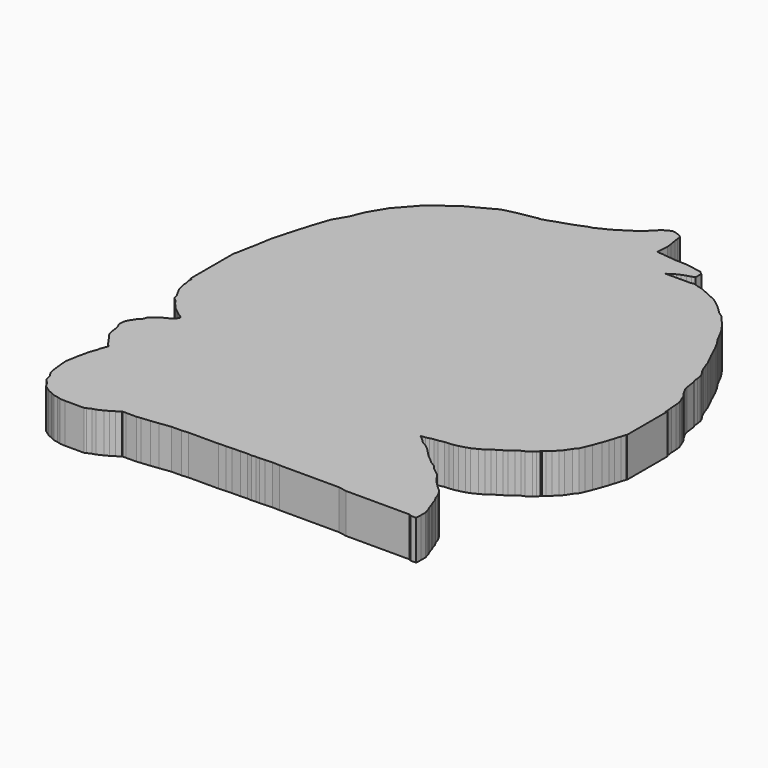
from build123d import *

# Parameters (mm, degrees)
EXTRUDE027_DEPTH = 10
EXTRUDE026_DEPTH = 10
EXTRUDE025_DEPTH = 10
EXTRUDE024_DEPTH = 10
EXTRUDE023_DEPTH = 10
BOX010_W         = 10
BOX010_H         = 10
BOX010_DEPTH     = 10
BOX009_W         = 10
BOX009_H         = 10
BOX009_DEPTH     = 10
BOX008_W         = 10
BOX008_H         = 10
BOX008_DEPTH     = 10
BOX007_W         = 43
BOX007_H         = 10
BOX007_DEPTH     = 10
BOX006_W         = 10
BOX006_H         = 17.1
BOX006_DEPTH     = 10
BOX005_W         = 12
BOX005_H         = 39
BOX005_DEPTH     = 10
BOX004_W         = 10
BOX004_H         = 16
BOX004_DEPTH     = 10
BOX003_W         = 15
BOX003_H         = 10
BOX003_DEPTH     = 10
BOX002_W         = 10
BOX002_H         = 19
BOX002_DEPTH     = 10
BOX001_W         = 10
BOX001_H         = 53
BOX001_DEPTH     = 10
BOX_W            = 46
BOX_H            = 53
BOX_DEPTH        = 4


with BuildPart() as extrude027:
    # Sketch004 (on Sketch) → Extrude027 (new body)
    with BuildSketch(Plane.XY):
        Polygon((82.129718, -49.20298), (82.129718, -49.694065), (82.221815, -49.939606), (82.221815, -50.307919), (82.344608, -50.737617), (82.467401, -51.228699), (82.651587, -51.566319), (82.958574, -52.11879), (83.081367, -52.579182), (83.419043, -52.855415), (83.726028, -53.285114), (84.309291, -53.929661), (84.769766, -54.297974), (85.138145, -54.574207), (85.475822, -54.789055), (85.567917, -54.94252), (85.414428, -55.188061), (85.168841, -55.372215), (84.923255, -55.556374), (84.677669, -55.679142), (84.217194, -55.924686), (83.848822, -56.20092), (83.511139, -56.53854), (83.357649, -56.937546), (83.019966, -57.275166), (82.743684, -57.704865), (82.559492, -58.011791), (82.467401, -58.380104), (82.467401, -58.840492), (82.620891, -59.116726), (82.712987, -59.423656), (82.743684, -59.607811), (82.774381, -59.976124), (82.835781, -60.283051), (82.897175, -60.528591), (82.98927, -60.712749), (83.326946, -61.111755), (83.480442, -61.387989), (83.603235, -61.541454), (83.787422, -61.817688), (83.971615, -62.063229), (84.186497, -62.247383), (84.063705, -62.646389), (83.910214, -62.984009), (83.879518, -63.321629), (83.756725, -63.53648), (83.633932, -63.935482), (83.541835, -64.273102), (83.449746, -64.733498), (83.357649, -65.071114), (83.29625, -65.500816), (83.234856, -65.838432), (83.142759, -66.29882), (83.173457, -66.912674), (83.266958, -67.750008), (83.328357, -68.210403), (83.451144, -68.701485), (83.727433, -69.100487), (83.788827, -69.407417), (83.91162, -69.775726), (84.310702, -70.205429), (84.586978, -70.665817), (85.262343, -71.156898), (85.538625, -71.248978), (85.722812, -71.341057), (86.060494, -71.494522), (86.428873, -71.555908), (86.827949, -71.67868), (89.038216, -71.77076), (89.437293, -71.617294), (89.836369, -71.433136), (90.17405, -71.341057), (90.75732, -71.064827), (91.156395, -70.849976), (91.555471, -70.604431), (92.01594, -70.297508), (92.384319, -70.297508), (92.384319, -73.949936), (75.745906, -73.949936), (75.745906, -47.941055), align=None)
    extrude(amount=EXTRUDE027_DEPTH)


with BuildPart() as extrude026:
    # Sketch003 (on Sketch) → Extrude026 (new body)
    with BuildSketch(Plane.XY):
        Polygon((125.561165, -48.533157), (125.4077, -49.059258), (125.223549, -49.642418), (125.070084, -50.164192), (124.855232, -50.778049), (124.548309, -51.60675), (124.302765, -52.220604), (124.087914, -52.680996), (123.750298, -53.080002), (123.381981, -53.663162), (123.105751, -54.000782), (122.676056, -54.369095), (122.369125, -54.706715), (122.092888, -54.890873), (121.785965, -55.228493), (121.540421, -55.412647), (121.080032, -55.750267), (120.773102, -55.873039), (120.3741, -56.179966), (119.944397, -56.517586), (119.606781, -56.701744), (119.177086, -56.977978), (118.778076, -57.162132), (118.409767, -57.499752), (117.949371, -57.745296), (117.396904, -58.02153), (116.967209, -58.174992), (116.384048, -58.328457), (115.954346, -58.420536), (115.555344, -58.451229), (115.094955, -58.481918), (114.54248, -58.604691), (114.174171, -58.635384), (113.775169, -58.727463), (113.437546, -58.819542), (112.977158, -58.850231), (113.468239, -59.249237), (113.867249, -59.648243), (114.235558, -59.832401), (114.603867, -60.108635), (114.972183, -60.446255), (115.248413, -60.753181), (115.678116, -61.18288), (116.169197, -61.581882), (116.476128, -61.85812), (117.028595, -62.195736), (117.304825, -62.53336), (117.673141, -62.840286), (118.102837, -63.177906), (118.348381, -63.484833), (118.533005, -63.768009), (118.901314, -64.228401), (119.238937, -64.566025), (119.607246, -64.934334), (119.94487, -65.210571), (120.2211, -65.609573), (120.405258, -65.977882), (120.497337, -66.346199), (120.742874, -66.714508), (120.865646, -67.144211), (121.019112, -67.481827), (121.141884, -67.91153), (121.326042, -68.310532), (121.4795, -68.832306), (121.4795, -69.419716), (121.4487, -70.002876), (121.080391, -70.125648), (120.712074, -69.880104), (114.266609, -69.880104), (113.468597, -69.726646), (107.452827, -69.726646), (106.716202, -69.695953), (105.979576, -69.726646), (105.457802, -69.757339), (105.058792, -69.757339), (104.629089, -69.788033), (104.230087, -69.757339), (103.524155, -69.788033), (102.69545, -69.788033), (102.081596, -69.818726), (101.344971, -69.849419), (100.301422, -69.849419), (99.22718, -69.849419), (98.306396, -69.849419), (97.66185, -69.910805), (96.648987, -69.910805), (95.544052, -70.064262), (94.74604, -70.156342), (93.825264, -70.248421), (93.088631, -70.3405), (93.027245, -71.90583), (129.152573, -71.90583), (129.152573, -48.533157), align=None)
    extrude(amount=EXTRUDE026_DEPTH)


with BuildPart() as extrude025:
    # Sketch002 (on Sketch) → Extrude025 (new body)
    with BuildSketch(Plane.XY):
        Polygon((113.035233, -24.109739), (112.666924, -24.23251), (112.26792, -24.355282), (111.838225, -24.508745), (111.531296, -24.662209), (111.285751, -24.754286), (111.009514, -24.999828), (110.733284, -25.122599), (113.188698, -25.122599), (113.649093, -25.061213), (113.98671, -25.183983), (114.355025, -25.276062), (114.600563, -25.337446), (115.091651, -25.552298), (115.82827, -25.889915), (116.104507, -26.012688), (116.44213, -26.166151), (116.779747, -26.380999), (117.240135, -26.749313), (117.70053, -27.148317), (118.222305, -27.670094), (118.74408, -28.038404), (119.265854, -28.65226), (119.511398, -28.928493), (119.818328, -29.327499), (120.125252, -29.726503), (120.432181, -30.24828), (120.616333, -30.585899), (120.861877, -31.076982), (121.046035, -31.414604), (121.352959, -31.844301), (121.813353, -32.703697), (122.058891, -33.256165), (122.304435, -33.777943), (122.918289, -35.00565), (123.010368, -35.312576), (123.255905, -35.957123), (123.40937, -36.294743), (123.746993, -36.785828), (123.869765, -37.123447), (123.931145, -37.522453), (123.961838, -37.952148), (124.08461, -38.228382), (124.207382, -39.179859), (124.330154, -39.609554), (124.637077, -40.162025), (124.913315, -40.530338), (125.158858, -41.113499), (125.343849, -41.579353), (125.405235, -42.070435), (125.435928, -42.714981), (125.497314, -43.175373), (125.528008, -43.635761), (130.715073, -29.97751), (122.670227, -19.12763), align=None)
    extrude(amount=EXTRUDE025_DEPTH)


with BuildPart() as extrude024:
    # Sketch001 → Extrude024 (new body)
    with BuildSketch(Plane.XY):
        Polygon((112.988113, -23.404947), (112.686569, -23.128527), (112.460403, -23.103397), (112.058342, -23.028011), (111.078308, -22.852108), (110.726501, -22.852108), (110.349564, -22.826979), (109.922371, -22.826979), (109.595695, -22.77672), (109.243889, -22.751591), (108.967468, -22.726463), (108.741302, -22.701334), (108.490013, -22.651075), (108.213593, -22.651075), (107.937172, -22.600817), (108.012566, -21.419752), (107.937172, -20.866913), (107.836662, -20.263815), (107.7864, -19.86175), (107.711014, -19.459686), (107.334076, -19.258654), (106.906883, -19.10788), (106.705849, -19.08275), (106.479691, -19.158136), (106.20327, -19.283781), (105.801208, -19.560202), (105.399139, -19.962267), (104.946815, -20.414591), (104.494492, -20.766397), (103.966782, -21.143332), (103.112396, -21.671043), (102.685204, -21.947462), (102.258011, -22.148495), (101.830818, -22.349527), (101.403618, -22.575689), (100.901039, -22.701334), (100.373329, -22.927496), (99.795364, -23.153656), (99.217392, -23.354689), (98.488655, -23.580851), (97.885551, -23.807013), (97.131683, -24.033175), (90.271454, -16.092394), (117.712372, -13.855906), align=None)
    extrude(amount=EXTRUDE024_DEPTH)


with BuildPart() as extrude023:
    # Sketch → Extrude023 (new body)
    with BuildSketch(Plane.XY):
        Polygon((85.137451, -33.114918), (84.384719, -34.369488), (83.799248, -36.125881), (83.13015, -38.384106), (82.71196, -39.973225), (82.461044, -41.478706), (82.042861, -43.65329), (78.948257, -43.820564), (78.948257, -32.194904), (78.948257, -22.07472), (96.930397, -22.07472), (97.014037, -23.99839), (95.174003, -24.332943), (93.752158, -24.667492), (92.99942, -25.085684), (91.075745, -26.089336), (88.650246, -27.845734), (86.726577, -30.020319), (85.722923, -31.693073), align=None)
    extrude(amount=EXTRUDE023_DEPTH)


with BuildPart() as cube007:
    # Box010 → Box010 (new body)
    with BuildSketch(Plane(origin=(82, -81.7, 0), x_dir=(1, 0, 0), z_dir=(0, 0, 1))):
        with Locations((5, 5)):
            Rectangle(BOX010_W, BOX010_H)
    extrude(amount=BOX010_DEPTH)


with BuildPart() as cube006:
    # Box009 → Box009 (new body)
    with BuildSketch(Plane(origin=(92, -80.3, 0), x_dir=(1, 0, 0), z_dir=(0, 0, 1))):
        with Locations((5, 5)):
            Rectangle(BOX009_W, BOX009_H)
    extrude(amount=BOX009_DEPTH)


with BuildPart() as cube005:
    # Box008 → Box008 (new body)
    with BuildSketch(Plane(origin=(113, -25, 0), x_dir=(1, 0, 0), z_dir=(0, 0, 1))):
        with Locations((5, 5)):
            Rectangle(BOX008_W, BOX008_H)
    extrude(amount=BOX008_DEPTH)


with BuildPart() as cube004:
    # Box007 → Box007 (new body)
    with BuildSketch(Plane(origin=(97, -80, 0), x_dir=(1, 0, 0), z_dir=(0, 0, 1))):
        with Locations((21.5, 5)):
            Rectangle(BOX007_W, BOX007_H)
    extrude(amount=BOX007_DEPTH)


with BuildPart() as cube003:
    # Box006 → Box006 (new body)
    with BuildSketch(Plane(origin=(122, -72, 0), x_dir=(1, 0, 0), z_dir=(0, 0, 1))):
        with Locations((5, 8.55)):
            Rectangle(BOX006_W, BOX006_H)
    extrude(amount=BOX006_DEPTH)


with BuildPart() as cube002:
    # Box005 → Box005 (new body)
    with BuildSketch(Plane(origin=(125.6, -72, 0), x_dir=(1, 0, 0), z_dir=(0, 0, 1))):
        with Locations((6, 19.5)):
            Rectangle(BOX005_W, BOX005_H)
    extrude(amount=BOX005_DEPTH)


with BuildPart() as cube001:
    # Box004 → Box004 (new body)
    with BuildSketch(Plane(origin=(122, -33, 0), x_dir=(1, 0, 0), z_dir=(0, 0, 1))):
        with Locations((5, 8)):
            Rectangle(BOX004_W, BOX004_H)
    extrude(amount=BOX004_DEPTH)


with BuildPart() as cube:
    # Box003 → Box003 (new body)
    with BuildSketch(Plane(origin=(82, -24, 0), x_dir=(1, 0, 0), z_dir=(0, 0, 1))):
        with Locations((7.5, 5)):
            Rectangle(BOX003_W, BOX003_H)
    extrude(amount=BOX003_DEPTH)


with BuildPart() as p2:
    # Box002 → Box002 (new body)
    with BuildSketch(Plane(origin=(75, -33, 0), x_dir=(1, 0, 0), z_dir=(0, 0, 1))):
        with Locations((5, 9.5)):
            Rectangle(BOX002_W, BOX002_H)
    extrude(amount=BOX002_DEPTH)


with BuildPart() as p1:
    # Box001 → Box001 (new body)
    with BuildSketch(Plane(origin=(72, -72, 0), x_dir=(1, 0, 0), z_dir=(0, 0, 1))):
        with Locations((5, 26.5)):
            Rectangle(BOX001_W, BOX001_H)
    extrude(amount=BOX001_DEPTH)


with BuildPart() as obj1:
    # Box → Box (new body)
    with BuildSketch(Plane(origin=(81, -72, 3), x_dir=(1, 0, 0), z_dir=(0, 0, 1))):
        with Locations((23, 26.5)):
            Rectangle(BOX_W, BOX_H)
    extrude(amount=BOX_DEPTH)

    # Cut: cut p1
    add(p1.part, mode=Mode.SUBTRACT)

    # Cut001: cut p2
    add(p2.part, mode=Mode.SUBTRACT)

    # Cut002: cut Cube
    add(cube.part, mode=Mode.SUBTRACT)

    # Cut003: cut Cube001
    add(cube001.part, mode=Mode.SUBTRACT)

    # Cut004: cut Cube002
    add(cube002.part, mode=Mode.SUBTRACT)

    # Cut005: cut Cube003
    add(cube003.part, mode=Mode.SUBTRACT)

    # Cut006: cut Cube004
    add(cube004.part, mode=Mode.SUBTRACT)

    # Cut007: cut Cube005
    add(cube005.part, mode=Mode.SUBTRACT)

    # Cut008: cut Cube006
    add(cube006.part, mode=Mode.SUBTRACT)

    # Cut009: cut Cube007
    add(cube007.part, mode=Mode.SUBTRACT)

    # Cut010: cut Extrude023
    add(extrude023.part, mode=Mode.SUBTRACT)

    # Cut011: cut Extrude024
    add(extrude024.part, mode=Mode.SUBTRACT)

    # Cut012: cut Extrude025
    add(extrude025.part, mode=Mode.SUBTRACT)

    # Cut013: cut Extrude026
    add(extrude026.part, mode=Mode.SUBTRACT)

    # Cut014: cut Extrude027
    add(extrude027.part, mode=Mode.SUBTRACT)


solid = obj1.part
